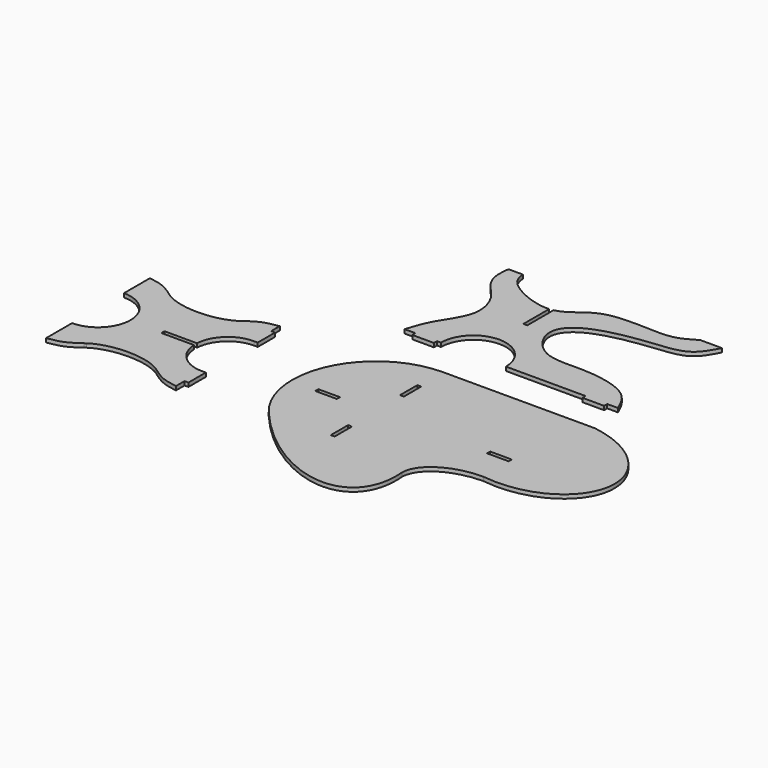
from build123d import *

# Parameters (mm, degrees)
F1_DEPTH = 18
F0_W     = 100
F0_H     = 18
F2_DEPTH = 18


with BuildPart() as f1:
    # F0 (on Top) → F1 (new body)
    with BuildSketch(Plane.XY):
        with BuildLine():
            Line((-4932.9041481018, 434.7149252892), (-4932.9041481018, 484.7149252892))
            add(Edge.make_bspline(
                [(-4932.9041481018, 484.7149252892), (-4957.3862881872, 480.6352171026), (-5004.5730941704, 472.8057575498), (-5045.5253901361, 444.417569172), (-5065.0961313389, 430.307964544)],
                knots=[0, 0, 0, 0, 0.4917508276, 0.9474181081, 0.9474181081, 0.9474181081, 0.9474181081], degree=3))
            add(Edge.make_bspline(
                [(-5071.8682574768, 425.4118015717), (-5068.3363962871, 427.8094679027), (-5065.0961313389, 430.307964544)],
                knots=[5.6483669896, 5.6483669896, 5.6483669896, 5.707905469, 5.707905469, 5.707905469], degree=2, weights=[1, 0.9995569289, 1]))
            add(Edge.make_bspline(
                [(-5393.9400387268, 425.4118015717), (-5232.9041481018, 316.0897437955), (-5071.8682574768, 425.4118015717)],
                knots=[3.7764109711, 3.7764109711, 3.7764109711, 5.6483669896, 5.6483669896, 5.6483669896], degree=2, weights=[1, 0.5930312372, 1]))
            add(Edge.make_bspline(
                [(-5400.7121648649, 430.3079645441), (-5397.4718999166, 427.8094679027), (-5393.9400387268, 425.4118015717)],
                knots=[3.7168724918, 3.7168724918, 3.7168724918, 3.7764109711, 3.7764109711, 3.7764109711], degree=2, weights=[1, 0.9995569289, 1]))
            add(Edge.make_bspline(
                [(-5532.9041481018, 484.7149252892), (-5508.4220080164, 480.6352171026), (-5461.2352020332, 472.8057575499), (-5420.2829060675, 444.4175691721), (-5400.7121648649, 430.3079645441)],
                knots=[0, 0, 0, 0, 0.4917508276, 0.9474181081, 0.9474181081, 0.9474181081, 0.9474181081], degree=3))
            Line((-5532.9041481018, 484.7149252892), (-5532.9041481018, 334.7149252892))
            ThreePointArc((-5532.9041481018, 334.7149252892), (-5382.9041481018, 184.7149252892), (-5532.9041481018, 34.7149252892))
            Line((-5532.9041481018, 34.7149252892), (-5532.9041481018, -115.2850747108))
            add(Edge.make_bspline(
                [(-5532.9041481018, -115.2850747108), (-5508.4220080164, -111.2053665243), (-5461.2352020332, -103.3759069716), (-5420.2829060675, -74.9877185938), (-5400.7121648649, -60.8781139658)],
                knots=[0, 0, 0, 0, 0.4917508276, 0.9474181081, 0.9474181081, 0.9474181081, 0.9474181081], degree=3))
            add(Edge.make_bspline(
                [(-5393.9400387268, -55.9819509934), (-5397.4718999166, -58.3796173244), (-5400.7121648649, -60.8781139658)],
                knots=[2.506774336, 2.506774336, 2.506774336, 2.5663128154, 2.5663128154, 2.5663128154], degree=2, weights=[1, 0.9995569289, 1]))
            add(Edge.make_bspline(
                [(-5071.8682574768, -55.9819509934), (-5232.9041481018, 53.3401067828), (-5393.9400387268, -55.9819509934)],
                knots=[0.6348183176, 0.6348183176, 0.6348183176, 2.506774336, 2.506774336, 2.506774336], degree=2, weights=[1, 0.5930312372, 1]))
            add(Edge.make_bspline(
                [(-5065.0961313389, -60.8781139657), (-5068.3363962871, -58.3796173244), (-5071.8682574768, -55.9819509934)],
                knots=[0.5752798382, 0.5752798382, 0.5752798382, 0.6348183176, 0.6348183176, 0.6348183176], degree=2, weights=[1, 0.9995569289, 1]))
            add(Edge.make_bspline(
                [(-4932.9041481018, -115.2850747108), (-4957.3862881872, -111.2053665243), (-5004.5730941704, -103.3759069715), (-5045.5253901361, -74.9877185937), (-5065.0961313389, -60.8781139657)],
                knots=[0, 0, 0, 0, 0.4917508276, 0.9474181081, 0.9474181081, 0.9474181081, 0.9474181081], degree=3))
            Line((-4932.9041481018, -115.2850747108), (-4932.9041481018, -65.2850747108))
            Line((-4932.9041481018, -65.2850747108), (-4914.9041481018, -65.2850747108))
            Line((-4914.9041481018, -65.2850747108), (-4914.9041481018, 34.7149252892))
            Line((-4914.9041481018, 34.7149252892), (-4932.9041481018, 34.7149252892))
            ThreePointArc((-4932.9041481018, 34.7149252892), (-5035.7389671078, 75.5132769499), (-5082.6339046634, 175.7149252892))
            Line((-5082.6339046634, 175.7149252892), (-5232.9041481018, 175.7149252892))
            Line((-5232.9041481018, 175.7149252892), (-5232.9041481018, 193.7149252892))
            Line((-5232.9041481018, 193.7149252892), (-5082.6339046634, 193.7149252892))
            ThreePointArc((-5082.6339046634, 193.7149252892), (-5035.7389671078, 293.9165736284), (-4932.9041481018, 334.7149252892))
            Line((-4932.9041481018, 334.7149252892), (-4914.9041481018, 334.7149252892))
            Line((-4914.9041481018, 334.7149252892), (-4914.9041481018, 434.7149252892))
            Line((-4914.9041481018, 434.7149252892), (-4932.9041481018, 434.7149252892))
        make_face()
    extrude(amount=F1_DEPTH)


with BuildPart() as f2:
    # F0 (on Top) → F2 (new body)
    with BuildSketch(Plane.XY):
        with BuildLine():
            Line((-3548.2331168536, 571.9155214412), (-3948.2331168536, 571.9155214412))
            Line((-3948.2331168536, 571.9155214412), (-4248.2331168536, 571.9155214412))
            ThreePointArc((-4248.2331168536, 571.9155214412), (-4599.2961336264, 348.0521834849), (-4544.4189759842, -64.68082149))
            add(Edge.make_bspline(
                [(-4544.4189759842, -64.68082149), (-3806.1491091963, -941.4603880575), (-3874.266724668, -133.5325733298)],
                knots=[4.748036429, 4.748036429, 4.748036429, 6.9071303105, 6.9071303105, 6.9071303105], degree=2, weights=[1, 0.4717278949, 1]))
            add(Edge.make_bspline(
                [(-3624.7444152832, 24.9351459475), (-3874.266724668, 24.9351459475), (-3874.266724668, -133.5325733298)],
                knots=[4.7123889804, 4.7123889804, 4.7123889804, 6.2831853072, 6.2831853072, 6.2831853072], degree=2, weights=[1, 0.7071067812, 1]))
            add(Edge.make_bspline(
                [(-3624.7444152832, 24.9351459475), (-3259.539679719, -26.149481148), (-3221.2840305042, 247.3407065989), (-3183.0283812894, 520.8308943457), (-3548.2331168536, 571.9155214412)],
                knots=[4.7123889804, 4.7123889804, 4.7123889804, 6.2831853072, 6.2831853072, 7.853981634, 7.853981634, 7.853981634], degree=2, weights=[1, 0.7071067812, 1, 0.7071067812, 1]))
        make_face()
        with Locations((-4466.4916884784, 177.7910113335)):
            Rectangle(F0_W, F0_H, mode=Mode.SUBTRACT)
        Polygon((-4248.2331168536, 34.7149252892), (-4239.2331168536, 34.7149252892), (-4239.2331168536, -65.2850747108), (-4257.2331168536, -65.2850747108), (-4257.2331168536, 34.7149252892), align=None, mode=Mode.SUBTRACT)
        Polygon((-4239.2331168536, 334.7149252892), (-4248.2331168536, 334.7149252892), (-4257.2331168536, 334.7149252892), (-4257.2331168536, 434.7149252892), (-4239.2331168536, 434.7149252892), align=None, mode=Mode.SUBTRACT)
        Polygon((-3727.8380393982, 193.7149252892), (-3677.8380393982, 193.7149252892), (-3627.8380393982, 193.7149252892), (-3627.8380393982, 175.7149252892), (-3727.8380393982, 175.7149252892), align=None, mode=Mode.SUBTRACT)
    extrude(amount=F2_DEPTH)


with BuildPart() as f2b:
    # F0 (on Top) → F2, piece 2 (new body)
    with BuildSketch(Plane.XY):
        with BuildLine():
            add(Edge.make_bspline(
                [(-4566.5230751038, 747.5317716599), (-4555.3775478782, 783.7150171745), (-4531.0786828323, 862.4366688879), (-4421.2807720709, 999.0120870117), (-4470.9164025371, 1141.5085868579), (-4531.9428106707, 1194.1399761569), (-4575.3960282937, 1264.6771220001), (-4569.5121800288, 1319.6209117416), (-4566.5230751038, 1347.5317716599)],
                knots=[0, 0, 0, 0, 0.1761336227, 0.3833362265, 0.5689359166, 0.7136267812, 0.854534988, 1, 1, 1, 1], degree=3))
            Line((-4566.5230751038, 747.5317716599), (-4516.5230751038, 747.5317716599))
            Line((-4516.5230751038, 747.5317716599), (-4516.5230751038, 729.5317716599))
            Line((-4516.5230751038, 729.5317716599), (-4416.5230751038, 729.5317716598))
            Line((-4416.5230751038, 729.5317716599), (-4416.5230751038, 747.5317716599))
            Line((-4416.5230751038, 747.5317716599), (-4398.2331168536, 747.5317716599))
            ThreePointArc((-4398.2331168536, 747.5317716599), (-4248.2331168536, 897.5317716599), (-4098.2331168536, 747.5317716599))
            Line((-4098.2331168536, 747.5317716599), (-3883.9659690857, 747.5317716599))
            Line((-3883.9659690857, 747.5317716599), (-3729.9431586035, 747.5317716599))
            Line((-3729.9431586035, 747.5317716599), (-3729.9431586035, 729.5317716599))
            Line((-3729.9431586035, 729.5317716599), (-3629.9431586035, 729.5317716599))
            Line((-3629.9431586035, 729.5317716599), (-3629.9431586035, 747.5317716599))
            Line((-3629.9431586035, 747.5317716599), (-3579.9431586035, 747.5317716599))
            add(Edge.make_bspline(
                [(-3579.9431586035, 747.5317716599), (-3595.9048783931, 783.3044646973), (-3633.3393953583, 867.2010311107), (-3857.8072503396, 914.6691964212), (-4053.792306621, 884.2564964013), (-4172.0020688698, 1048.5624947572), (-4087.2559497834, 1173.8253398122), (-3828.3446539192, 1223.9106055282), (-3642.4260906566, 1229.2736844181), (-3599.3230153489, 1310.8525584023), (-3579.9431586035, 1347.5317716599)],
                knots=[0, 0, 0, 0, 0.1053970499, 0.2471843702, 0.3823094102, 0.5034953188, 0.6087080591, 0.7657511528, 0.8946778375, 1, 1, 1, 1], degree=3))
            Line((-3579.9431586035, 1347.5317716599), (-3679.9431586035, 1347.5317716599))
            add(Edge.make_bspline(
                [(-3679.9431586035, 1347.5317716599), (-3703.5200797541, 1333.3819260991), (-3753.53002023, 1303.3450039858), (-3853.9220512382, 1294.4661210208), (-4108.1032613685, 1318.810736987), (-4183.0653798469, 1211.239158108), (-4239.2331168537, 1199.1260980136)],
                knots=[0, 0, 0, 0, 0.1249562655, 0.2653009608, 0.4809797093, 0.6566759302, 0.6566759302, 0.6566759302, 0.6566759302], degree=3))
            Line((-4239.2331168537, 1199.1260980136), (-4239.2331168539, 1047.5317716599))
            Line((-4239.2331168539, 1047.5317716599), (-4248.2331168536, 1047.5317716599))
            Line((-4248.2331168536, 1047.5317716599), (-4257.2331168536, 1047.5317716599))
            Line((-4257.2331168536, 1047.5317716599), (-4257.2331168536, 1196.5967247521))
            add(Edge.make_bspline(
                [(-4257.2331168536, 1196.596724752), (-4328.3733104594, 1191.5790262296), (-4488.8698910102, 1264.8443307023), (-4497.0903715429, 1325.2698579299), (-4500.1521110535, 1347.5317716599)],
                knots=[0.6746685686, 0.6746685686, 0.6746685686, 0.6746685686, 0.8795849917, 1, 1, 1, 1], degree=3))
            Line((-4500.1521110535, 1347.5317716599), (-4566.5230751038, 1347.5317716599))
        make_face()
    extrude(amount=F2_DEPTH)


solid = Compound([f1.part, f2.part, f2b.part])
